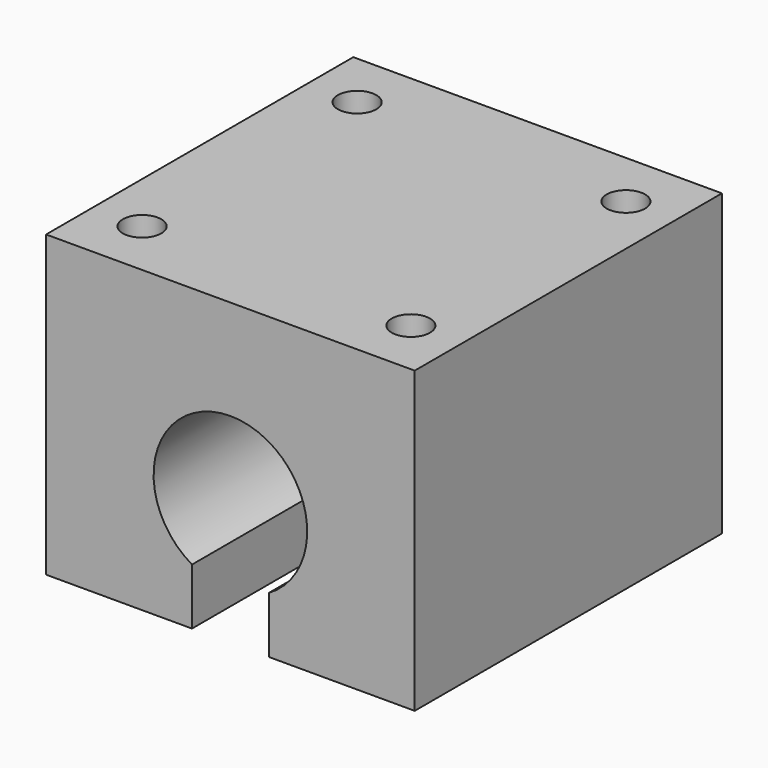
from build123d import *

# Parameters (mm, degrees)
F1_DEPTH = 50
F2_R     = 2.5
F3_DEPTH = 12


with BuildPart() as f1:
    # F0 (on Front) → F1 (new body)
    with BuildSketch(Plane.XZ):
        with BuildLine():
            Line((24, -19.5), (24, 19.5))
            Line((24, 19.5), (-24, 19.5))
            Line((-24, 19.5), (-24, -19.5))
            Line((-24, -19.5), (-5, -19.5))
            Line((-5, -19.5), (-5, -12.160254))
            ThreePointArc((-5, -12.160254), (0, 6.5), (5, -12.160254))
            Line((5, -12.160254), (5, -19.5))
            Line((5, -19.5), (24, -19.5))
        make_face()
    extrude(amount=F1_DEPTH)

    # F2 (on face) → F3 (cut)
    with BuildSketch(Plane.XY.offset(19.5)):
        with Locations((-17.5, -42.5)):
            Circle(F2_R)
        with Locations((-17.5, -7.5)):
            Circle(F2_R)
        with Locations((17.5, -7.5)):
            Circle(F2_R)
        with Locations((17.5, -42.5)):
            Circle(F2_R)
    extrude(amount=-F3_DEPTH, mode=Mode.SUBTRACT)


solid = f1.part
